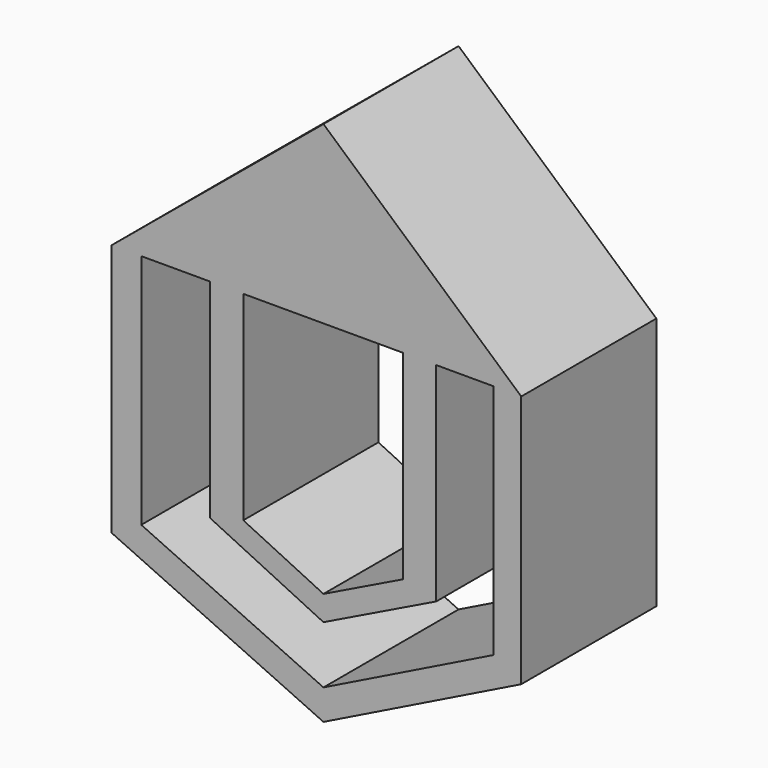
from build123d import *

# Parameters (mm, degrees)
F1_DEPTH = 25.4


with BuildPart() as f1:
    # F0 (on Front) → F1 (new body)
    with BuildSketch(Plane.XZ):
        Polygon((-12.055261, 28.439302), (0, 28.439302), (11.965498, 28.439302), (16.958359, 28.439302), (25.59025, 28.439302), (29.748362, 28.439302), (0, 54.835739), (-31.855997, 28.439302), (-27.403288, 28.439302), (-17.085577, 28.439302), align=None)
        Polygon((-27.403288, -7.143155), (-27.403288, 28.439302), (-31.855997, 28.439302), (-31.855997, -9.660698), (0, -24.325384), (29.748362, -9.660698), (29.748362, 28.439302), (25.59025, 28.439302), (25.59025, -7.143155), (0, -19.758067), align=None)
        Polygon((-12.055261, -1.548657), (-12.055261, 28.439302), (-17.085577, 28.439302), (-17.085577, -2.85931), (0, -11.119998), (16.958359, -2.85931), (16.958359, 28.439302), (11.965498, 28.439302), (11.965498, -1.548657), (0, -7.377243), align=None)
    extrude(amount=F1_DEPTH)


solid = f1.part
